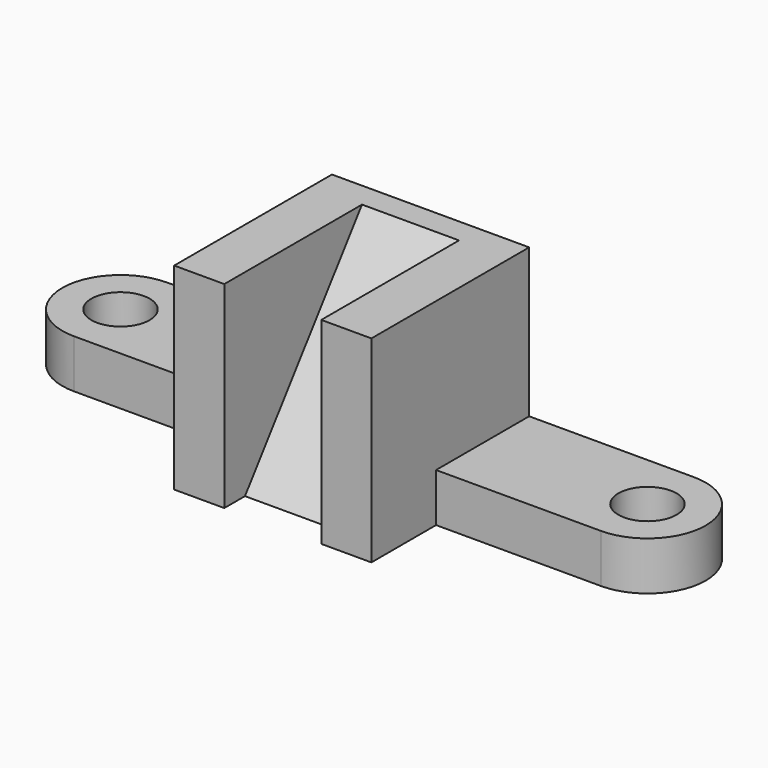
from build123d import *

# Parameters (mm, degrees)
F1_DEPTH = 61
F3_DEPTH = 30
F0_R     = 9
F4_DEPTH = 15


with BuildPart() as f1:
    # F0 (on Top) → F1 (new body)
    with BuildSketch(Plane.XY):
        Polygon((-2.163718, 11.050885), (-2.163718, -13.949115), (13.336282, -13.949115), (13.336282, 39.300885), (43.336282, 39.300885), (43.336282, -13.949115), (58.836282, -13.949115), (58.836282, 11.050885), (58.836282, 47.050885), (-2.163718, 47.050885), align=None)
    extrude(amount=F1_DEPTH)

    # F2 (on face) → F3 (join)
    with BuildSketch(Plane(origin=(43.336282, 0, 0), x_dir=(0, -1, 0), z_dir=(-1, 0, 0))):
        Polygon((-39.300885, 0), (5.949115, 0), (-39.300885, 61), align=None)
    extrude(amount=F3_DEPTH)

    # F0 (on Top) → F4 (join)
    with BuildSketch(Plane.XY):
        with BuildLine():
            Line((-53.163718, 11.050885), (-2.163718, 11.050885))
            Line((-2.163718, 11.050885), (-2.163718, 47.050885))
            Line((-2.163718, 47.050885), (-53.163718, 47.050885))
            ThreePointArc((-53.163718, 47.050885), (-71.163718, 29.050885), (-53.163718, 11.050885))
        make_face()
        with Locations((-53.163718, 29.050885)):
            Circle(F0_R, mode=Mode.SUBTRACT)
        with BuildLine():
            Line((109.836282, 47.050885), (58.836282, 47.050885))
            Line((58.836282, 47.050885), (58.836282, 11.050885))
            Line((58.836282, 11.050885), (109.836282, 11.050885))
            ThreePointArc((109.836282, 11.050885), (127.836282, 29.050885), (109.836282, 47.050885))
        make_face()
        with Locations((109.836282, 29.050885)):
            Circle(F0_R, mode=Mode.SUBTRACT)
    extrude(amount=F4_DEPTH)


solid = f1.part
